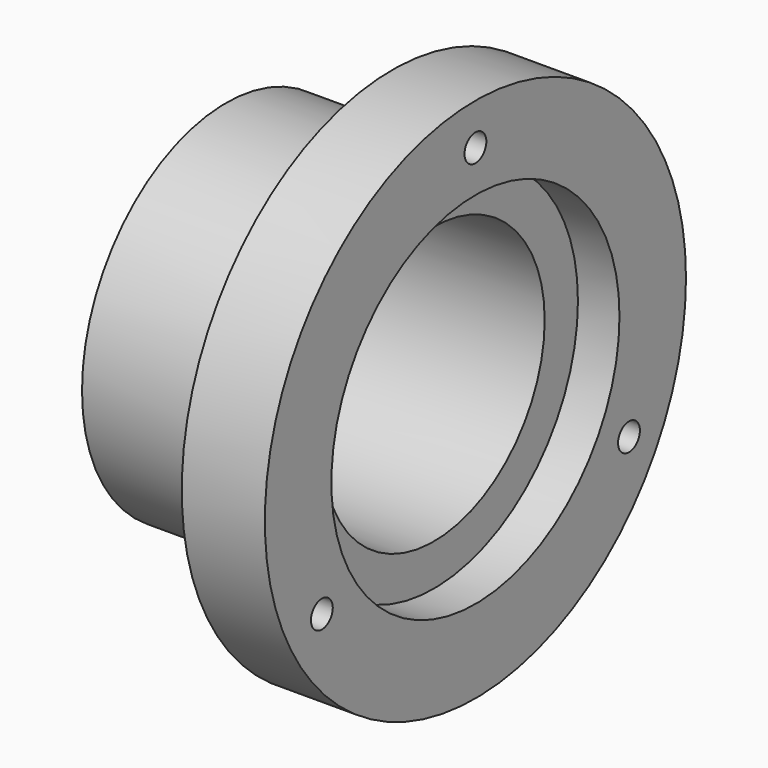
from build123d import *

# Parameters (mm, degrees)
F0_R        = 24.13
F1_DEPTH    = 22.86
F2_R        = 16.51
F3_DEPTH    = 3.81
F4_R        = 12.7
F5_DEPTH    = 19.05
F6_R        = 24.13
F6_R_2      = 16.51
F7_DEPTH    = 15.24
F8_R        = 1.25
F7_FACE_R   = 24.13
F7_FACE_R_2 = 16.51
F9_DEPTH    = 25.4


with BuildPart() as f1:
    # F0 (on Right) → F1 (new body)
    with BuildSketch(Plane.YZ):
        Circle(F0_R)
    extrude(amount=F1_DEPTH)

    # F2 (on face) → F3 (cut)
    with BuildSketch(Plane.YZ.offset(22.86)):
        Circle(F2_R)
    extrude(amount=-F3_DEPTH, mode=Mode.SUBTRACT)

    # F4 (on face) → F5 (cut, through all)
    with BuildSketch(Plane.YZ.offset(19.05)):
        Circle(F4_R)
    extrude(amount=-F5_DEPTH, mode=Mode.SUBTRACT)

    # F6 (on face) → F7 (cut)
    with BuildSketch(Plane(origin=(0, 0, 0), x_dir=(0, -1, 0), z_dir=(-1, 0, 0))):
        Circle(F6_R)
        Circle(F6_R_2, mode=Mode.SUBTRACT)
    extrude(amount=-F7_DEPTH, mode=Mode.SUBTRACT)

    # F8 (on face) + F7_face (on face) → F9 (cut)
    with BuildSketch(Plane.YZ.offset(22.86)):
        with Locations((0, 20.32)):
            Circle(F8_R)
        with Locations((-17.5976362049, -10.16)):
            Circle(F8_R)
        with Locations((17.5976362049, -10.16)):
            Circle(F8_R)
    with BuildSketch(Plane(origin=(15.24, 0, 0), x_dir=(0, -1, 0), z_dir=(-1, 0, 0))):
        Circle(F7_FACE_R)
        Circle(F7_FACE_R_2, mode=Mode.SUBTRACT)
    extrude(amount=-F9_DEPTH, dir=(1, 0, 0), mode=Mode.SUBTRACT)


solid = f1.part
